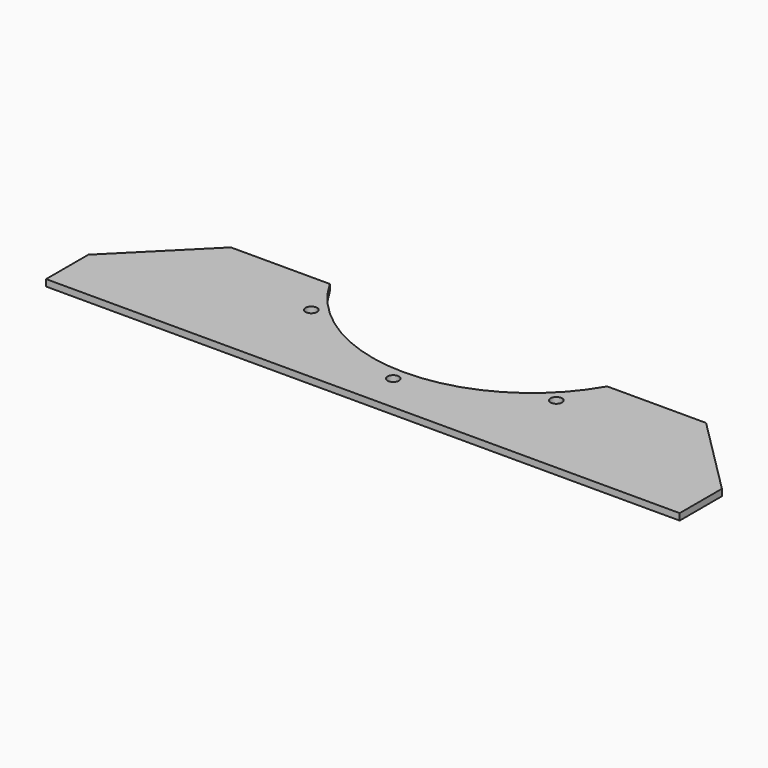
from build123d import *

# Parameters (mm, degrees)
F0_R     = 5.55625
F1_DEPTH = 6.35


with BuildPart() as f1:
    # F0 (on Top) → F1 (new body)
    with BuildSketch(Plane.XY):
        with BuildLine():
            Line((0, 50.8), (0, 0))
            Line((0, 0), (609.6, 0))
            Line((609.6, 0), (609.6, 50.8))
            Line((609.6, 50.8), (533.4, 127))
            Line((533.4, 127), (438.246727, 127))
            ThreePointArc((438.246727, 127), (304.8, 49.53), (171.353273, 127))
            Line((171.353273, 127), (76.2, 127))
            Line((76.2, 127), (0, 50.8))
        make_face()
        with Locations((304.8, 36.5125)):
            Circle(F0_R, mode=Mode.SUBTRACT)
        with Locations((186.934138, 85.334138)):
            Circle(F0_R, mode=Mode.SUBTRACT)
        with Locations((422.665862, 85.334138)):
            Circle(F0_R, mode=Mode.SUBTRACT)
    extrude(amount=F1_DEPTH)


solid = f1.part
